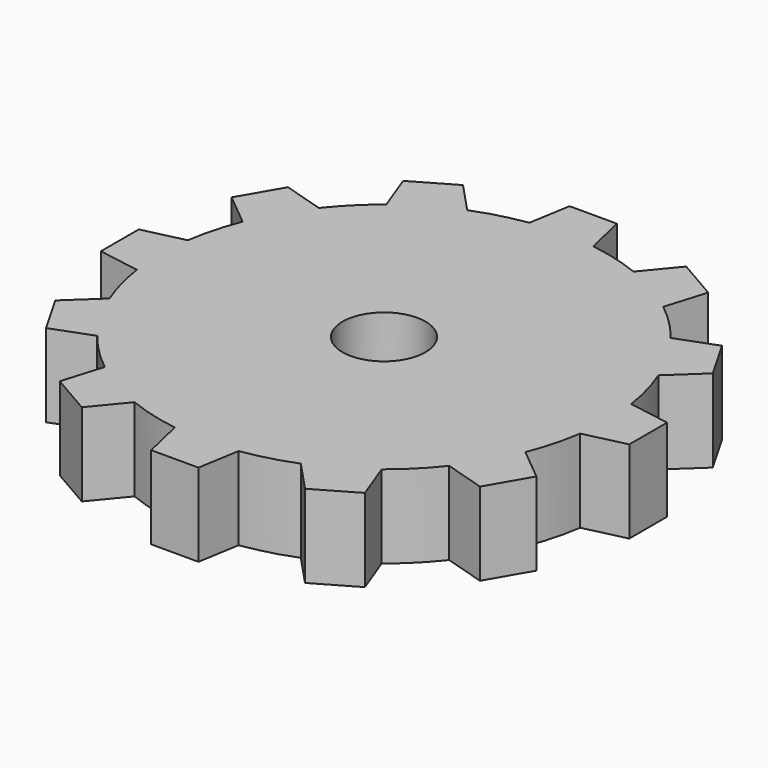
from build123d import *

# Parameters (mm, degrees)
F0_R     = 2.5
F1_DEPTH = 5


with BuildPart() as f1:
    # F0 (on Top) → F1 (new body)
    with BuildSketch(Plane.XY):
        with BuildLine():
            ThreePointArc((-8.348124, 10.609375), (-6.75, 11.691343), (-5.013926, 12.534375))
            Line((-5.013926, 12.534375), (-6.76633, 14.409375))
            Line((-6.76633, 14.409375), (-9.234502, 12.984375))
            Line((-9.234502, 12.984375), (-8.348124, 10.609375))
        make_face()
        with BuildLine():
            Line((13.36205, -1.925), (13.36205, 1.925))
            ThreePointArc((13.36205, 1.925), (13.039999, 3.494057), (12.534375, 5.013926))
            Line((12.534375, 5.013926), (10.609375, 8.348124))
            ThreePointArc((10.609375, 8.348124), (9.545942, 9.545942), (8.348124, 10.609375))
            Line((8.348124, 10.609375), (5.013926, 12.534375))
            ThreePointArc((5.013926, 12.534375), (3.494057, 13.039999), (1.925, 13.36205))
            Line((1.925, 13.36205), (-1.925, 13.36205))
            ThreePointArc((-1.925, 13.36205), (-3.494057, 13.039999), (-5.013926, 12.534375))
            Line((-5.013926, 12.534375), (-8.348124, 10.609375))
            ThreePointArc((-8.348124, 10.609375), (-9.545942, 9.545942), (-10.609375, 8.348124))
            Line((-10.609375, 8.348124), (-12.534375, 5.013926))
            ThreePointArc((-12.534375, 5.013926), (-13.039999, 3.494057), (-13.36205, 1.925))
            Line((-13.36205, 1.925), (-13.36205, -1.925))
            ThreePointArc((-13.36205, -1.925), (-13.039999, -3.494057), (-12.534375, -5.013926))
            Line((-12.534375, -5.013926), (-10.609375, -8.348124))
            ThreePointArc((-10.609375, -8.348124), (-9.545942, -9.545942), (-8.348124, -10.609375))
            Line((-8.348124, -10.609375), (-5.013926, -12.534375))
            ThreePointArc((-5.013926, -12.534375), (-3.494057, -13.039999), (-1.925, -13.36205))
            Line((-1.925, -13.36205), (1.925, -13.36205))
            ThreePointArc((1.925, -13.36205), (3.494057, -13.039999), (5.013926, -12.534375))
            Line((5.013926, -12.534375), (8.348124, -10.609375))
            ThreePointArc((8.348124, -10.609375), (9.545942, -9.545942), (10.609375, -8.348124))
            Line((10.609375, -8.348124), (12.534375, -5.013926))
            ThreePointArc((12.534375, -5.013926), (13.039999, -3.494057), (13.36205, -1.925))
        make_face()
        Circle(F0_R, mode=Mode.SUBTRACT)
        with BuildLine():
            ThreePointArc((-12.534375, 5.013926), (-11.691343, 6.75), (-10.609375, 8.348124))
            Line((-10.609375, 8.348124), (-13.064501, 9.09572))
            Line((-13.064501, 9.09572), (-14.489501, 6.627547))
            Line((-14.489501, 6.627547), (-12.534375, 5.013926))
        make_face()
        with BuildLine():
            ThreePointArc((-13.36205, -1.925), (-13.5, 0), (-13.36205, 1.925))
            Line((-13.36205, 1.925), (-15.86205, 1.344874))
            Line((-15.86205, 1.344874), (-15.86205, -1.505126))
            Line((-15.86205, -1.505126), (-13.36205, -1.925))
        make_face()
        with BuildLine():
            Line((-12.984375, -9.234502), (-10.609375, -8.348124))
            ThreePointArc((-10.609375, -8.348124), (-11.691343, -6.75), (-12.534375, -5.013926))
            Line((-12.534375, -5.013926), (-14.409375, -6.76633))
            Line((-14.409375, -6.76633), (-12.984375, -9.234502))
        make_face()
        with BuildLine():
            Line((-6.627547, -14.489501), (-5.013926, -12.534375))
            ThreePointArc((-5.013926, -12.534375), (-6.75, -11.691343), (-8.348124, -10.609375))
            Line((-8.348124, -10.609375), (-9.09572, -13.064501))
            Line((-9.09572, -13.064501), (-6.627547, -14.489501))
        make_face()
        with BuildLine():
            Line((1.505126, -15.86205), (1.925, -13.36205))
            ThreePointArc((1.925, -13.36205), (0, -13.5), (-1.925, -13.36205))
            Line((-1.925, -13.36205), (-1.344874, -15.86205))
            Line((-1.344874, -15.86205), (1.505126, -15.86205))
        make_face()
        with BuildLine():
            Line((9.234502, -12.984375), (8.348124, -10.609375))
            ThreePointArc((8.348124, -10.609375), (6.75, -11.691343), (5.013926, -12.534375))
            Line((5.013926, -12.534375), (6.76633, -14.409375))
            Line((6.76633, -14.409375), (9.234502, -12.984375))
        make_face()
        with BuildLine():
            Line((14.489501, -6.627547), (12.534375, -5.013926))
            ThreePointArc((12.534375, -5.013926), (11.691343, -6.75), (10.609375, -8.348124))
            Line((10.609375, -8.348124), (13.064501, -9.09572))
            Line((13.064501, -9.09572), (14.489501, -6.627547))
        make_face()
        with BuildLine():
            ThreePointArc((13.36205, 1.925), (13.465468, 0.964968), (13.5, 0))
            ThreePointArc((13.5, 0), (13.465468, -0.964968), (13.36205, -1.925))
            Line((13.36205, -1.925), (15.86205, -1.344874))
            Line((15.86205, -1.344874), (15.86205, 1.505126))
            Line((15.86205, 1.505126), (13.36205, 1.925))
        make_face()
        with BuildLine():
            ThreePointArc((5.013926, 12.534375), (6.75, 11.691343), (8.348124, 10.609375))
            Line((8.348124, 10.609375), (9.09572, 13.064501))
            Line((9.09572, 13.064501), (6.627547, 14.489501))
            Line((6.627547, 14.489501), (5.013926, 12.534375))
        make_face()
        with BuildLine():
            ThreePointArc((-1.925, 13.36205), (0, 13.5), (1.925, 13.36205))
            Line((1.925, 13.36205), (1.344874, 15.86205))
            Line((1.344874, 15.86205), (-1.505126, 15.86205))
            Line((-1.505126, 15.86205), (-1.925, 13.36205))
        make_face()
        with BuildLine():
            ThreePointArc((10.609375, 8.348124), (11.691343, 6.75), (12.534375, 5.013926))
            Line((12.534375, 5.013926), (14.409375, 6.76633))
            Line((14.409375, 6.76633), (12.984375, 9.234502))
            Line((12.984375, 9.234502), (10.609375, 8.348124))
        make_face()
        with BuildLine():
            ThreePointArc((13.36205, -1.925), (13.465468, -0.964968), (13.5, 0))
            ThreePointArc((13.5, 0), (13.465468, 0.964968), (13.36205, 1.925))
            Line((13.36205, 1.925), (13.36205, -1.925))
        make_face()
        with BuildLine():
            Line((10.609375, 8.348124), (12.534375, 5.013926))
            ThreePointArc((12.534375, 5.013926), (11.691343, 6.75), (10.609375, 8.348124))
        make_face()
        with BuildLine():
            Line((5.013926, 12.534375), (8.348124, 10.609375))
            ThreePointArc((8.348124, 10.609375), (6.75, 11.691343), (5.013926, 12.534375))
        make_face()
        with BuildLine():
            Line((-1.925, 13.36205), (1.925, 13.36205))
            ThreePointArc((1.925, 13.36205), (0, 13.5), (-1.925, 13.36205))
        make_face()
        with BuildLine():
            Line((13.36205, -1.925), (13.36205, 1.925))
            ThreePointArc((13.36205, 1.925), (13.039999, 3.494057), (12.534375, 5.013926))
            Line((12.534375, 5.013926), (10.609375, 8.348124))
            ThreePointArc((10.609375, 8.348124), (9.545942, 9.545942), (8.348124, 10.609375))
            Line((8.348124, 10.609375), (5.013926, 12.534375))
            ThreePointArc((5.013926, 12.534375), (3.494057, 13.039999), (1.925, 13.36205))
            Line((1.925, 13.36205), (-1.925, 13.36205))
            ThreePointArc((-1.925, 13.36205), (-3.494057, 13.039999), (-5.013926, 12.534375))
            Line((-5.013926, 12.534375), (-8.348124, 10.609375))
            ThreePointArc((-8.348124, 10.609375), (-9.545942, 9.545942), (-10.609375, 8.348124))
            Line((-10.609375, 8.348124), (-12.534375, 5.013926))
            ThreePointArc((-12.534375, 5.013926), (-13.039999, 3.494057), (-13.36205, 1.925))
            Line((-13.36205, 1.925), (-13.36205, -1.925))
            ThreePointArc((-13.36205, -1.925), (-13.039999, -3.494057), (-12.534375, -5.013926))
            Line((-12.534375, -5.013926), (-10.609375, -8.348124))
            ThreePointArc((-10.609375, -8.348124), (-9.545942, -9.545942), (-8.348124, -10.609375))
            Line((-8.348124, -10.609375), (-5.013926, -12.534375))
            ThreePointArc((-5.013926, -12.534375), (-3.494057, -13.039999), (-1.925, -13.36205))
            Line((-1.925, -13.36205), (1.925, -13.36205))
            ThreePointArc((1.925, -13.36205), (3.494057, -13.039999), (5.013926, -12.534375))
            Line((5.013926, -12.534375), (8.348124, -10.609375))
            ThreePointArc((8.348124, -10.609375), (9.545942, -9.545942), (10.609375, -8.348124))
            Line((10.609375, -8.348124), (12.534375, -5.013926))
            ThreePointArc((12.534375, -5.013926), (13.039999, -3.494057), (13.36205, -1.925))
        make_face()
        Circle(F0_R, mode=Mode.SUBTRACT)
        with BuildLine():
            Line((13.36205, -1.925), (13.36205, 1.925))
            ThreePointArc((13.36205, 1.925), (13.039999, 3.494057), (12.534375, 5.013926))
            Line((12.534375, 5.013926), (10.609375, 8.348124))
            ThreePointArc((10.609375, 8.348124), (9.545942, 9.545942), (8.348124, 10.609375))
            Line((8.348124, 10.609375), (5.013926, 12.534375))
            ThreePointArc((5.013926, 12.534375), (3.494057, 13.039999), (1.925, 13.36205))
            Line((1.925, 13.36205), (-1.925, 13.36205))
            ThreePointArc((-1.925, 13.36205), (-3.494057, 13.039999), (-5.013926, 12.534375))
            Line((-5.013926, 12.534375), (-8.348124, 10.609375))
            ThreePointArc((-8.348124, 10.609375), (-9.545942, 9.545942), (-10.609375, 8.348124))
            Line((-10.609375, 8.348124), (-12.534375, 5.013926))
            ThreePointArc((-12.534375, 5.013926), (-13.039999, 3.494057), (-13.36205, 1.925))
            Line((-13.36205, 1.925), (-13.36205, -1.925))
            ThreePointArc((-13.36205, -1.925), (-13.039999, -3.494057), (-12.534375, -5.013926))
            Line((-12.534375, -5.013926), (-10.609375, -8.348124))
            ThreePointArc((-10.609375, -8.348124), (-9.545942, -9.545942), (-8.348124, -10.609375))
            Line((-8.348124, -10.609375), (-5.013926, -12.534375))
            ThreePointArc((-5.013926, -12.534375), (-3.494057, -13.039999), (-1.925, -13.36205))
            Line((-1.925, -13.36205), (1.925, -13.36205))
            ThreePointArc((1.925, -13.36205), (3.494057, -13.039999), (5.013926, -12.534375))
            Line((5.013926, -12.534375), (8.348124, -10.609375))
            ThreePointArc((8.348124, -10.609375), (9.545942, -9.545942), (10.609375, -8.348124))
            Line((10.609375, -8.348124), (12.534375, -5.013926))
            ThreePointArc((12.534375, -5.013926), (13.039999, -3.494057), (13.36205, -1.925))
        make_face()
        Circle(F0_R, mode=Mode.SUBTRACT)
        with BuildLine():
            Line((13.36205, -1.925), (13.36205, 1.925))
            ThreePointArc((13.36205, 1.925), (13.039999, 3.494057), (12.534375, 5.013926))
            Line((12.534375, 5.013926), (10.609375, 8.348124))
            ThreePointArc((10.609375, 8.348124), (9.545942, 9.545942), (8.348124, 10.609375))
            Line((8.348124, 10.609375), (5.013926, 12.534375))
            ThreePointArc((5.013926, 12.534375), (3.494057, 13.039999), (1.925, 13.36205))
            Line((1.925, 13.36205), (-1.925, 13.36205))
            ThreePointArc((-1.925, 13.36205), (-3.494057, 13.039999), (-5.013926, 12.534375))
            Line((-5.013926, 12.534375), (-8.348124, 10.609375))
            ThreePointArc((-8.348124, 10.609375), (-9.545942, 9.545942), (-10.609375, 8.348124))
            Line((-10.609375, 8.348124), (-12.534375, 5.013926))
            ThreePointArc((-12.534375, 5.013926), (-13.039999, 3.494057), (-13.36205, 1.925))
            Line((-13.36205, 1.925), (-13.36205, -1.925))
            ThreePointArc((-13.36205, -1.925), (-13.039999, -3.494057), (-12.534375, -5.013926))
            Line((-12.534375, -5.013926), (-10.609375, -8.348124))
            ThreePointArc((-10.609375, -8.348124), (-9.545942, -9.545942), (-8.348124, -10.609375))
            Line((-8.348124, -10.609375), (-5.013926, -12.534375))
            ThreePointArc((-5.013926, -12.534375), (-3.494057, -13.039999), (-1.925, -13.36205))
            Line((-1.925, -13.36205), (1.925, -13.36205))
            ThreePointArc((1.925, -13.36205), (3.494057, -13.039999), (5.013926, -12.534375))
            Line((5.013926, -12.534375), (8.348124, -10.609375))
            ThreePointArc((8.348124, -10.609375), (9.545942, -9.545942), (10.609375, -8.348124))
            Line((10.609375, -8.348124), (12.534375, -5.013926))
            ThreePointArc((12.534375, -5.013926), (13.039999, -3.494057), (13.36205, -1.925))
        make_face()
        Circle(F0_R, mode=Mode.SUBTRACT)
        with BuildLine():
            ThreePointArc((-12.534375, -5.013926), (-11.691343, -6.75), (-10.609375, -8.348124))
            Line((-10.609375, -8.348124), (-12.534375, -5.013926))
        make_face()
        with BuildLine():
            ThreePointArc((-8.348124, -10.609375), (-6.75, -11.691343), (-5.013926, -12.534375))
            Line((-5.013926, -12.534375), (-8.348124, -10.609375))
        make_face()
        with BuildLine():
            ThreePointArc((-1.925, -13.36205), (0, -13.5), (1.925, -13.36205))
            Line((1.925, -13.36205), (-1.925, -13.36205))
        make_face()
        with BuildLine():
            ThreePointArc((5.013926, -12.534375), (6.75, -11.691343), (8.348124, -10.609375))
            Line((8.348124, -10.609375), (5.013926, -12.534375))
        make_face()
        with BuildLine():
            ThreePointArc((10.609375, -8.348124), (11.691343, -6.75), (12.534375, -5.013926))
            Line((12.534375, -5.013926), (10.609375, -8.348124))
        make_face()
        with BuildLine():
            Line((-13.36205, -1.925), (-13.36205, 1.925))
            ThreePointArc((-13.36205, 1.925), (-13.5, 0), (-13.36205, -1.925))
        make_face()
        with BuildLine():
            Line((-12.534375, 5.013926), (-10.609375, 8.348124))
            ThreePointArc((-10.609375, 8.348124), (-11.691343, 6.75), (-12.534375, 5.013926))
        make_face()
        with BuildLine():
            Line((-8.348124, 10.609375), (-5.013926, 12.534375))
            ThreePointArc((-5.013926, 12.534375), (-6.75, 11.691343), (-8.348124, 10.609375))
        make_face()
    extrude(amount=F1_DEPTH)


solid = f1.part
